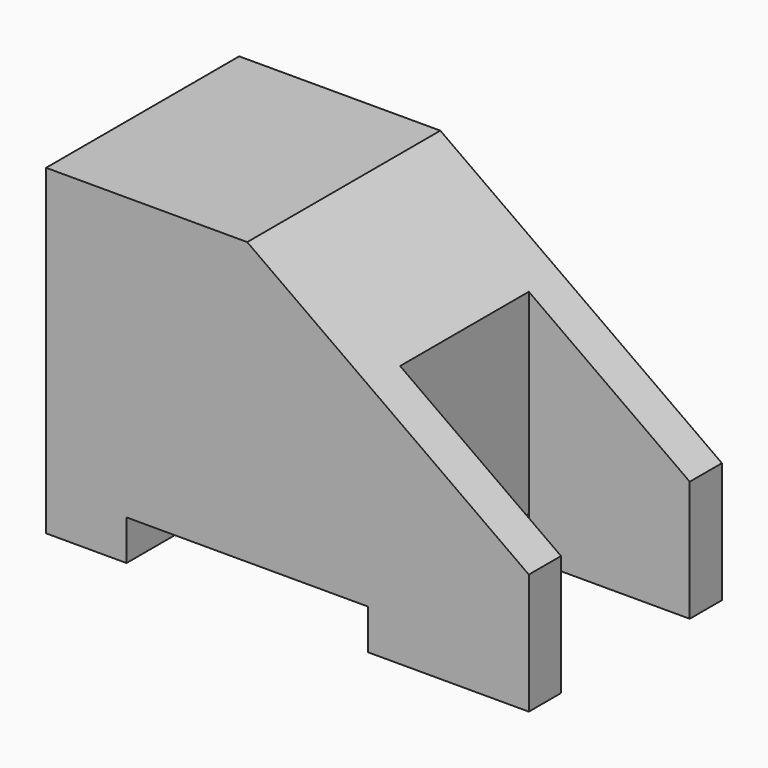
from build123d import *

# Parameters (mm, degrees)
F1_DEPTH = 15
F2_W     = 10
F2_H     = 10
F3_DEPTH = 20.001


with BuildPart() as f1:
    # F0 (on Front) → F1 (new body)
    with BuildSketch(Plane.XZ):
        Polygon((0, 20), (0, 0), (5, 0), (5, 2.5), (20, 2.5), (20, 0), (30, 0), (30, 7.5), (12.5, 20), align=None)
    extrude(amount=F1_DEPTH)

    # F2 (on face) → F3 (cut, through all)
    with BuildSketch(Plane(origin=(0, 0, 0), x_dir=(1, 0, 0), z_dir=(0, 0, -1))):
        with Locations((25, 7.5)):
            Rectangle(F2_W, F2_H)
    extrude(amount=-F3_DEPTH, mode=Mode.SUBTRACT)


solid = f1.part
